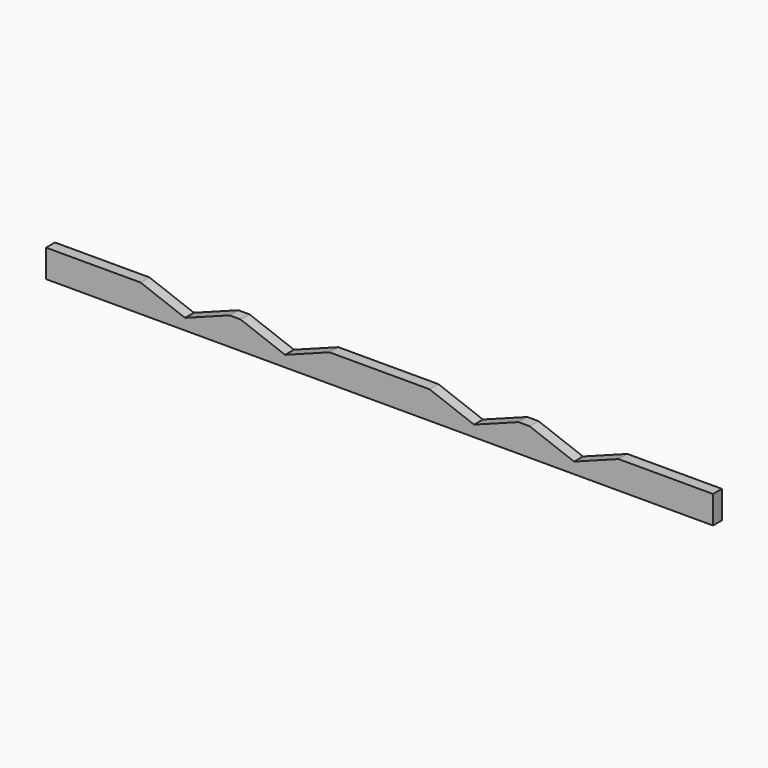
from build123d import *

# Parameters (mm, degrees)
F0_W     = 381
F0_H     = 31.75
F1_DEPTH = 12.7
F3_DEPTH = 12.701


with BuildPart() as f1:
    # F0 (on Front) → F1 (new body)
    with BuildSketch(Plane.XZ):
        with Locations((-190.5, 15.875)):
            Rectangle(F0_W, F0_H)
        with Locations((190.5, 15.875)):
            Rectangle(F0_W, F0_H)
    extrude(amount=-F1_DEPTH)

    # F2 (on face) → F3 (cut, through all)
    with BuildSketch(Plane.XZ):
        Polygon((-107.95, 12.7), (-57.15, 31.75), (-158.75, 31.75), align=None)
        Polygon((-273.05, 31.75), (-222.25, 12.7), (-171.45, 31.75), align=None)
        Polygon((57.15, 31.75), (107.95, 12.7), (158.75, 31.75), align=None)
        Polygon((171.45, 31.75), (222.25, 12.7), (273.05, 31.75), align=None)
    extrude(amount=-F3_DEPTH, mode=Mode.SUBTRACT)


solid = f1.part
